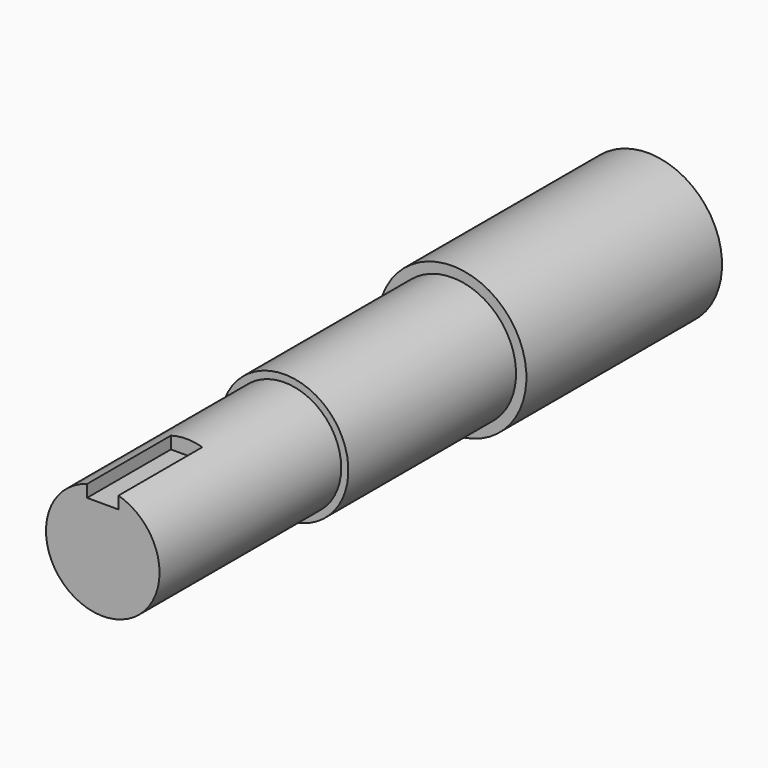
from build123d import *

# Parameters (mm, degrees)
F0_R      = 32.5
F1_DEPTH  = 100
F2_R      = 36.5851523514
F3_DEPTH  = 150
F4_R      = 42.5
F5_DEPTH  = 140
F7_DEPTH  = 110
F9_DEPTH  = 60
F10_R     = 36.5851523514
F10_R_2   = 32.5
F11_DEPTH = 30


with BuildPart() as f1:
    # F0 (on Front) → F1 (new body)
    with BuildSketch(Plane.XZ):
        Circle(F0_R)
    extrude(amount=-F1_DEPTH)

    # F2 (on face) → F3 (join)
    with BuildSketch(Plane(origin=(0, 100, 0), x_dir=(-1, 0, 0), z_dir=(0, 1, 0))):
        Circle(F2_R)
    extrude(amount=F3_DEPTH)

    # F4 (on face) → F5 (join)
    with BuildSketch(Plane(origin=(0, 250, 0), x_dir=(-1, 0, 0), z_dir=(0, 1, 0))):
        Circle(F4_R)
    extrude(amount=F5_DEPTH)

    # F6 (on face) → F7 (cut)
    with BuildSketch(Plane(origin=(0, 390, 0), x_dir=(-1, 0, 0), z_dir=(0, 1, 0))):
        with BuildLine():
            Line((-9, 32.6181760425), (-9, 28.6181760425))
            ThreePointArc((-9, 28.6181760425), (0, -30), (9, 28.6181760425))
            Line((9, 28.6181760425), (9, 32.6181760425))
            Line((9, 32.6181760425), (-9, 32.6181760425))
        make_face()
    extrude(amount=-F7_DEPTH, mode=Mode.SUBTRACT)

    # F8 (on face) → F9 (cut)
    with BuildSketch(Plane.XZ):
        with BuildLine():
            ThreePointArc((9, 31.2289929393), (0, 32.5), (-9, 31.2289929393))
            Line((-9, 31.2289929393), (-9, 24.2289929393))
            Line((-9, 24.2289929393), (9, 24.2289929393))
            Line((9, 24.2289929393), (9, 31.2289929393))
        make_face()
    extrude(amount=-F9_DEPTH, mode=Mode.SUBTRACT)

    # F10 (on face) → F11 (cut)
    with BuildSketch(Plane.XZ.offset(-100)):
        Circle(F10_R)
        Circle(F10_R_2, mode=Mode.SUBTRACT)
    extrude(amount=-F11_DEPTH, mode=Mode.SUBTRACT)


solid = f1.part
